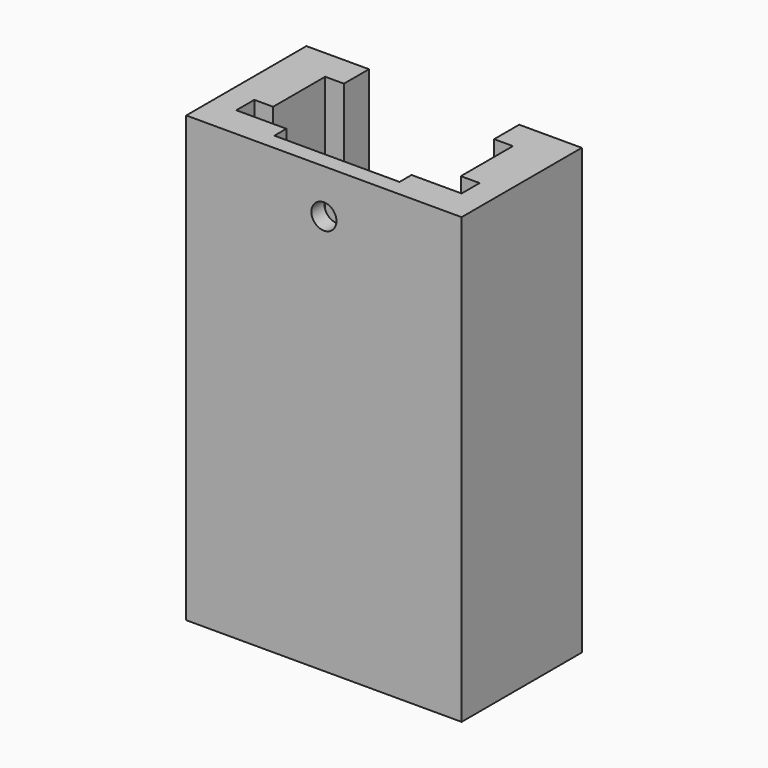
from build123d import *

# Parameters (mm, degrees)
F0_W     = 27.94
F0_H     = 15.24
F0_R     = 2.54
F1_DEPTH = 3.175
F2_W     = 27.94
F2_H     = 15.24
F2_W_2   = 19.05
F2_H_2   = 8.89
F3_DEPTH = 10.16
F4_W     = 27.94
F4_H     = 15.24
F5_DEPTH = 31.75
F6_W     = 15.24
F6_H     = 3.175
F7_DEPTH = 20.32
F8_R     = 1.27
F9_DEPTH = 1.651


with BuildPart() as f1:
    # F0 (on Top) → F1 (new body)
    with BuildSketch(Plane.XY):
        Rectangle(F0_W, F0_H)
        Circle(F0_R, mode=Mode.SUBTRACT)
    extrude(amount=F1_DEPTH)

    # F2 (on face) → F3 (join)
    with BuildSketch(Plane.XY.offset(3.175)):
        Rectangle(F2_W, F2_H)
        Rectangle(F2_W_2, F2_H_2, mode=Mode.SUBTRACT)
    extrude(amount=F3_DEPTH)

    # F4 (on face) → F5 (join)
    with BuildSketch(Plane.XY.offset(13.335)):
        Rectangle(F4_W, F4_H)
        Polygon((-9.525, -4.445), (-11.43, -4.445), (-11.43, -2.159), (-9.525, -2.159), (-9.525, 4.445), (9.525, 4.445), (9.525, -2.159), (11.43, -2.159), (11.43, -4.445), (9.525, -4.445), (6.35, -4.445), (6.35, -5.969), (-6.35, -5.969), (-6.35, -4.445), align=None, mode=Mode.SUBTRACT)
    extrude(amount=F5_DEPTH)

    # F6 (on face) → F7 (cut)
    with BuildSketch(Plane.XY.offset(45.085)):
        with Locations((0, 6.0325)):
            Rectangle(F6_W, F6_H)
    extrude(amount=-F7_DEPTH, mode=Mode.SUBTRACT)

    # F8 (on face) → F9 (cut, through all)
    with BuildSketch(Plane(origin=(0, -5.969, 0), x_dir=(-1, 0, 0), z_dir=(0, 1, 0))):
        with Locations((0, 40.6052581966)):
            Circle(F8_R)
    extrude(amount=-F9_DEPTH, mode=Mode.SUBTRACT)


solid = f1.part
